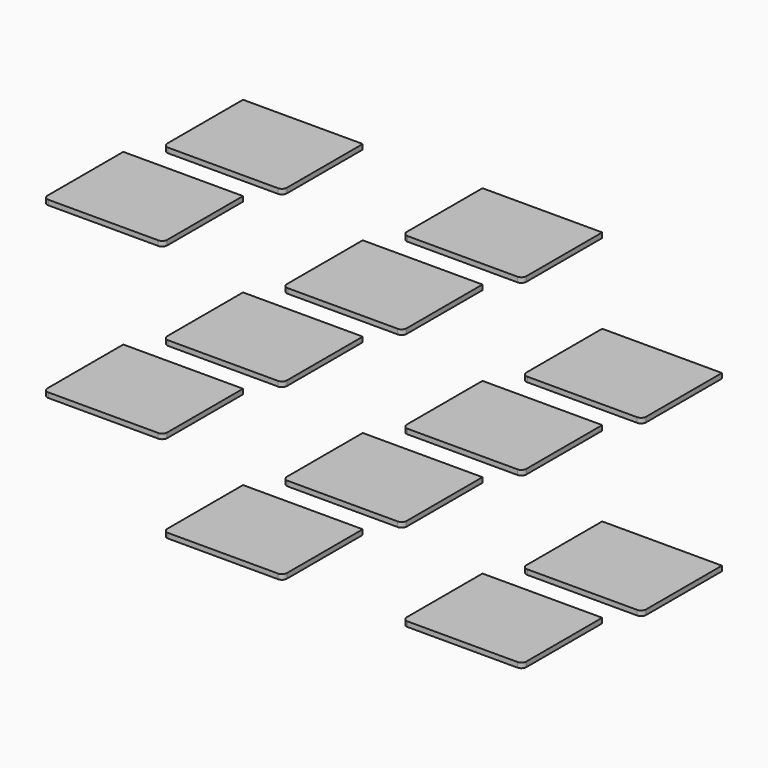
from build123d import *

# Parameters (mm, degrees)
F0_W     = 76.2
F0_H     = 3.175
F1_DEPTH = 63.5
F2_R     = 3.175
F3_R     = 3.175


with BuildPart() as f1:
    # F0 (on Front) → F1 (new body)
    with BuildSketch(Plane.XZ):
        with Locations((-59.570719, -1.5875)):
            Rectangle(F0_W, F0_H)
    extrude(amount=F1_DEPTH)

    # F2
    f2_edges = [f1.edges().sort_by_distance(p)[0] for p in [
        (-21.470719, -63.5, -1.5875),
    ]]
    fillet(f2_edges, radius=F2_R)

    # F3
    f3_edges = [f1.edges().sort_by_distance(p)[0] for p in [
        (-97.670719, -63.5, -1.5875),
    ]]
    fillet(f3_edges, radius=F3_R)


with BuildPart() as f4_1:
    # F4: copy of F1
    add(f1.part.moved(Location((76.2, 0, 0))))


with BuildPart() as f5_1:
    # F5: copy of F4_1
    add(f4_1.part.moved(Location((76.2, 0, 0))))


with BuildPart() as f6_1:
    # F6: copy of F5_1
    add(f5_1.part.moved(Location((76.2, 0, 0))))


with BuildPart() as f7_1:
    # F7: copy of F6_1
    add(f6_1.part.moved(Location((76.2, 0, 0))))


with BuildPart() as f8_1:
    # F8: copy of F1
    add(f1.part.moved(Location((0, 0, 104.775))))


with BuildPart() as f8_2:
    # F8: copy of F4_1
    add(f4_1.part.moved(Location((0, 0, 104.775))))


with BuildPart() as f8_3:
    # F8: copy of F5_1
    add(f5_1.part.moved(Location((0, 0, 104.775))))


with BuildPart() as f8_4:
    # F8: copy of F6_1
    add(f6_1.part.moved(Location((0, 0, 104.775))))


with BuildPart() as f8_5:
    # F8: copy of F7_1
    add(f7_1.part.moved(Location((0, 0, 104.775))))


with BuildPart() as f9_1:
    # F9: copy of F8_1
    add(f8_1.part.moved(Location((0, 0, 127))))


with BuildPart() as f9_2:
    # F9: copy of F8_2
    add(f8_2.part.moved(Location((0, 0, 127))))


with BuildPart() as f9_3:
    # F9: copy of F8_4
    add(f8_4.part.moved(Location((0, 0, 127))))


with BuildPart() as f9_4:
    # F9: copy of F8_5
    add(f8_5.part.moved(Location((0, 0, 127))))


with BuildPart() as f9_5:
    # F9: copy of F8_3
    add(f8_3.part.moved(Location((0, 0, 127))))


with BuildPart() as f10_1:
    # F10: copy of F9_1
    add(f9_1.part.moved(Location((0, 0, 104.775))))


with BuildPart() as f10_2:
    # F10: copy of F9_2
    add(f9_2.part.moved(Location((0, 0, 104.775))))


with BuildPart() as f10_3:
    # F10: copy of F9_5
    add(f9_5.part.moved(Location((0, 0, 104.775))))


with BuildPart() as f10_4:
    # F10: copy of F9_3
    add(f9_3.part.moved(Location((0, 0, 104.775))))


with BuildPart() as f10_5:
    # F10: copy of F9_4
    add(f9_4.part.moved(Location((0, 0, 104.775))))


with BuildPart() as f11_1:
    # F11: copy of F10_1
    add(f10_1.part.moved(Location((0, 0, 104.775))))


with BuildPart() as f11_2:
    # F11: copy of F10_2
    add(f10_2.part.moved(Location((0, 0, 104.775))))


with BuildPart() as f11_3:
    # F11: copy of F10_3
    add(f10_3.part.moved(Location((0, 0, 104.775))))


with BuildPart() as f11_4:
    # F11: copy of F10_4
    add(f10_4.part.moved(Location((0, 0, 104.775))))


with BuildPart() as f11_5:
    # F11: copy of F10_5
    add(f10_5.part.moved(Location((0, 0, 104.775))))


with BuildPart() as f10_5_1:
    # F12: moved
    add(f10_5.part.moved(Location((0, 0, -3.175))))


with BuildPart() as f10_4_1:
    # F12: moved
    add(f10_4.part.moved(Location((0, 0, -3.175))))


with BuildPart() as f10_3_1:
    # F12: moved
    add(f10_3.part.moved(Location((0, 0, -3.175))))


with BuildPart() as f10_2_1:
    # F12: moved
    add(f10_2.part.moved(Location((0, 0, -3.175))))


with BuildPart() as f10_1_1:
    # F12: moved
    add(f10_1.part.moved(Location((0, 0, -3.175))))


with BuildPart() as f9_1_1:
    # F12: moved
    add(f9_1.part.moved(Location((0, 0, -3.175))))


with BuildPart() as f9_2_1:
    # F12: moved
    add(f9_2.part.moved(Location((0, 0, -3.175))))


with BuildPart() as f9_3_1:
    # F12: moved
    add(f9_3.part.moved(Location((0, 0, -3.175))))


with BuildPart() as f9_4_1:
    # F12: moved
    add(f9_4.part.moved(Location((0, 0, -3.175))))


with BuildPart() as f9_5_1:
    # F12: moved
    add(f9_5.part.moved(Location((0, 0, -3.175))))


with BuildPart() as f14_1:
    # F14: copy of F1
    add(f1.part.moved(Location((0, 0, 53.975))))


with BuildPart() as f14_2:
    # F14: copy of F7_1
    add(f7_1.part.moved(Location((0, 0, 53.975))))


with BuildPart() as f14_3:
    # F14: copy of F6_1
    add(f6_1.part.moved(Location((0, 0, 53.975))))


with BuildPart() as f14_4:
    # F14: copy of F5_1
    add(f5_1.part.moved(Location((0, 0, 53.975))))


with BuildPart() as f14_5:
    # F14: copy of F4_1
    add(f4_1.part.moved(Location((0, 0, 53.975))))


with BuildPart() as f15_1:
    # F15: copy of F14_1
    add(f14_1.part.moved(Location((0, 0, 53.975))))


with BuildPart() as f15_2:
    # F15: copy of F14_2
    add(f14_2.part.moved(Location((0, 0, 53.975))))


with BuildPart() as f15_3:
    # F15: copy of F14_3
    add(f14_3.part.moved(Location((0, 0, 53.975))))


with BuildPart() as f15_4:
    # F15: copy of F14_4
    add(f14_4.part.moved(Location((0, 0, 53.975))))


with BuildPart() as f15_5:
    # F15: copy of F14_5
    add(f14_5.part.moved(Location((0, 0, 53.975))))


with BuildPart() as f16_1:
    # F16: copy of F15_1
    add(f15_1.part.moved(Location((0, 0, 53.975))))


with BuildPart() as f16_2:
    # F16: copy of F15_5
    add(f15_5.part.moved(Location((0, 0, 53.975))))


with BuildPart() as f16_3:
    # F16: copy of F15_4
    add(f15_4.part.moved(Location((0, 0, 53.975))))


with BuildPart() as f16_4:
    # F16: copy of F15_3
    add(f15_3.part.moved(Location((0, 0, 53.975))))


with BuildPart() as f16_5:
    # F16: copy of F15_2
    add(f15_2.part.moved(Location((0, 0, 53.975))))


with BuildPart() as f17_1:
    # F17: copy of F16_1
    add(f16_1.part.moved(Location((0, 0, 53.975))))


with BuildPart() as f17_2:
    # F17: copy of F16_2
    add(f16_2.part.moved(Location((0, 0, 53.975))))


with BuildPart() as f17_3:
    # F17: copy of F16_3
    add(f16_3.part.moved(Location((0, 0, 53.975))))


with BuildPart() as f17_4:
    # F17: copy of F16_5
    add(f16_5.part.moved(Location((0, 0, 53.975))))


with BuildPart() as f17_5:
    # F17: copy of F16_4
    add(f16_4.part.moved(Location((0, 0, 53.975))))


with BuildPart() as f4_1_1:
    # F19: moved
    add(f4_1.part.moved(Location((0, 0.8255, 0))))


with BuildPart() as f6_1_1:
    # F19: moved
    add(f6_1.part.moved(Location((0, 0.8255, 0))))


with BuildPart() as f14_1_1:
    # F19: moved
    add(f14_1.part.moved(Location((0, 0.8255, 0))))


with BuildPart() as f14_4_1:
    # F19: moved
    add(f14_4.part.moved(Location((0, 0.8255, 0))))


with BuildPart() as f14_2_1:
    # F19: moved
    add(f14_2.part.moved(Location((0, 0.8255, 0))))


with BuildPart() as f15_5_1:
    # F19: moved
    add(f15_5.part.moved(Location((0, 0.8255, 0))))


with BuildPart() as f15_3_1:
    # F19: moved
    add(f15_3.part.moved(Location((0, 0.8255, 0))))


with BuildPart() as f16_1_1:
    # F19: moved
    add(f16_1.part.moved(Location((0, 0.8255, 0))))


with BuildPart() as f16_3_1:
    # F19: moved
    add(f16_3.part.moved(Location((0, 0.8255, 0))))


with BuildPart() as f16_5_1:
    # F19: moved
    add(f16_5.part.moved(Location((0, 0.8255, 0))))


with BuildPart() as f17_2_1:
    # F19: moved
    add(f17_2.part.moved(Location((0, 0.8255, 0))))


with BuildPart() as f17_5_1:
    # F19: moved
    add(f17_5.part.moved(Location((0, 0.8255, 0))))


solid = Compound([f4_1_1.part, f6_1_1.part, f14_1_1.part, f14_4_1.part, f14_2_1.part, f15_5_1.part, f15_3_1.part, f16_1_1.part, f16_3_1.part, f16_5_1.part, f17_2_1.part, f17_5_1.part])
